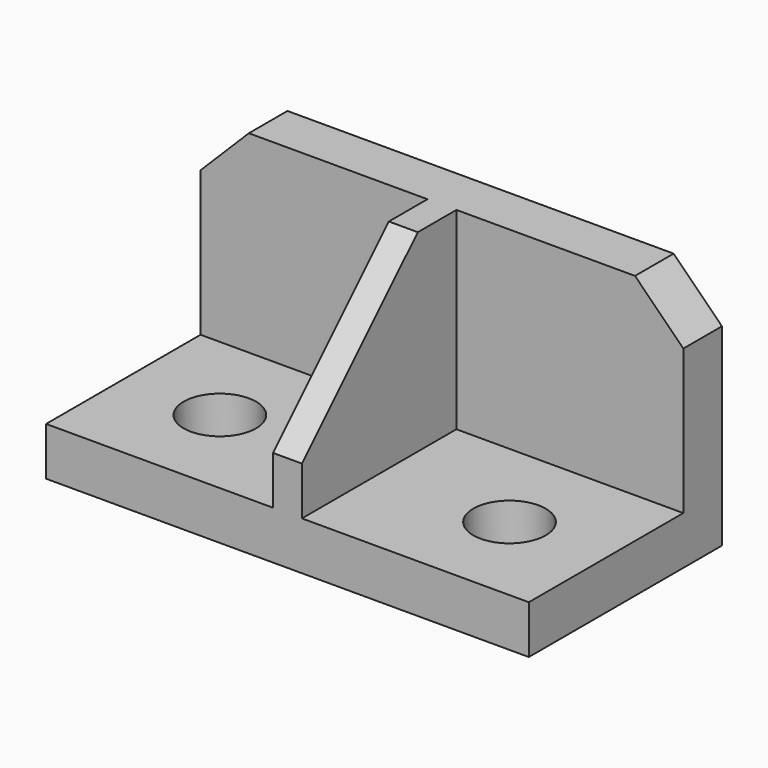
from build123d import *

# Parameters (mm, degrees)
F0_W     = 100
F0_H     = 50
F1_DEPTH = 50
F2_T     = -10
F3_R     = 7.5
F4_DEPTH = 10.001
F5_W     = 6
F5_H     = 40
F6_DEPTH = 40
F7_SIZE  = 10
F8_SIZE  = 30


with BuildPart() as f1:
    # F0 (on Top) → F1 (new body)
    with BuildSketch(Plane.XY):
        Rectangle(F0_W, F0_H)
    extrude(amount=F1_DEPTH)

    # F2
    f2_openings = [f1.faces().sort_by_distance(p)[0] for p in [
        (50, 0, 25),
        (0, 0, 50),
        (0, -25, 25),
        (-50, 0, 25),
    ]]
    offset(amount=F2_T, openings=f2_openings)

    # F3 (on face) → F4 (cut, through all)
    with BuildSketch(Plane.XY.offset(10)):
        with Locations((-30, -5)):
            Circle(F3_R)
        with Locations((30, -5)):
            Circle(F3_R)
    extrude(amount=-F4_DEPTH, mode=Mode.SUBTRACT)

    # F5 (on face) → F6 (join, through all)
    with BuildSketch(Plane.XY.offset(10)):
        with Locations((0, -5)):
            Rectangle(F5_W, F5_H)
    extrude(amount=F6_DEPTH)

    # F7
    f7_edges = [f1.edges().sort_by_distance(p)[0] for p in [
        (50, 20, 50),
        (-50, 20, 50),
    ]]
    chamfer(f7_edges, length=F7_SIZE)

    # F8
    f8_edges = [f1.edges().sort_by_distance(p)[0] for p in [
        (0, -25, 50),
    ]]
    chamfer(f8_edges, length=F8_SIZE)


solid = f1.part
